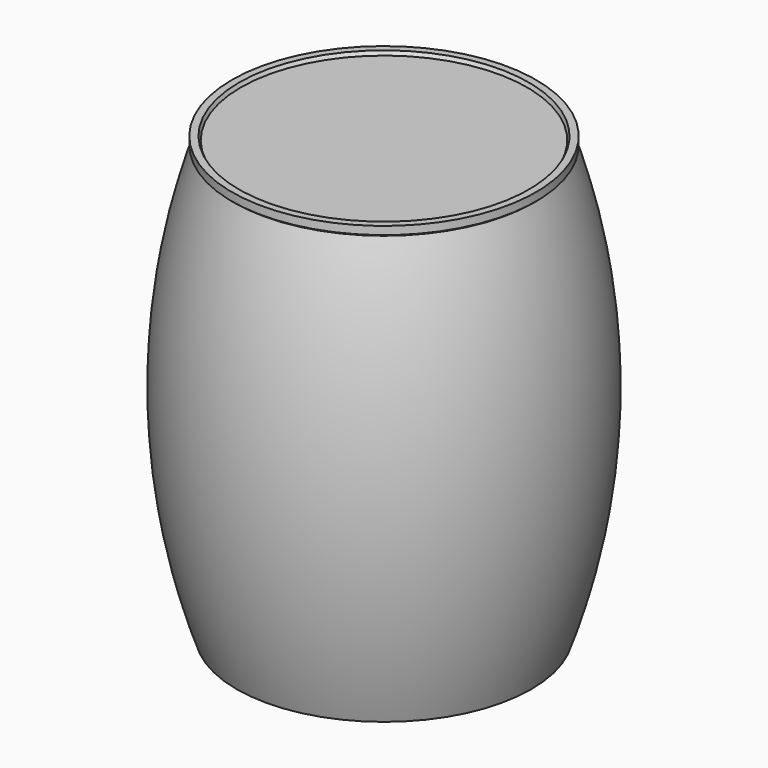
from build123d import *

# Parameters (mm, degrees)
F4_ANGLE = -90


with BuildPart() as f1:
    # F0 (on Front) → F1 (revolve)
    with BuildSketch(Plane.XZ):
        with BuildLine():
            Line((-403.0058240461, -91.9405779991), (-396.6558325048, -91.9405779991))
            Line((-396.6558325048, -91.9405779991), (-396.6558325048, 200.1594220009))
            ThreePointArc((-396.6558325048, 200.1594220009), (33.0734558544, 273.7089269733), (463.3074998856, 203.1719982624))
            Line((463.3074998856, 203.1719982624), (467.3306941986, 207.7923417091))
            Line((467.3306941986, 207.7923417091), (474.3982255459, 207.7923417091))
            Line((474.3982255459, 207.7923417091), (474.3982255459, 203.7463486195))
            Line((474.3982255459, 203.7463486195), (466.9441674952, 200.1594220009))
            Line((466.9441674952, 200.1594220009), (466.9441674952, -91.9405779991))
            Line((466.9441674952, -91.9405779991), (473.2941590366, -91.9405779991))
            Line((473.2941590366, -91.9405779991), (473.2941590366, 196.1681271988))
            Line((473.2941590366, 196.1681271988), (480.7482170872, 199.7550538173))
            Line((480.7482170872, 199.7550538173), (480.7482170872, 214.1423332505))
            Line((480.7482170872, 214.1423332505), (464.4400434839, 214.1423332505))
            Line((464.4400434839, 214.1423332505), (461.3144704592, 210.5528419861))
            ThreePointArc((461.3144704592, 210.5528419861), (28.6606795466, 280.0362272894), (-403.0058240461, 204.6620055665))
            Line((-403.0058240461, 204.6620055665), (-403.0058240461, -91.9405779991))
        make_face()
    revolve(axis=Axis((35.1441674952, 0, -91.9405779991), (1, 0, 0)))


with BuildPart() as f1_1:
    # F4: moved
    add(f1.part.rotate(Axis((-403.0058240461, 225.1456, -256.6567361355), (0, 1, 0)), F4_ANGLE))


solid = f1_1.part
